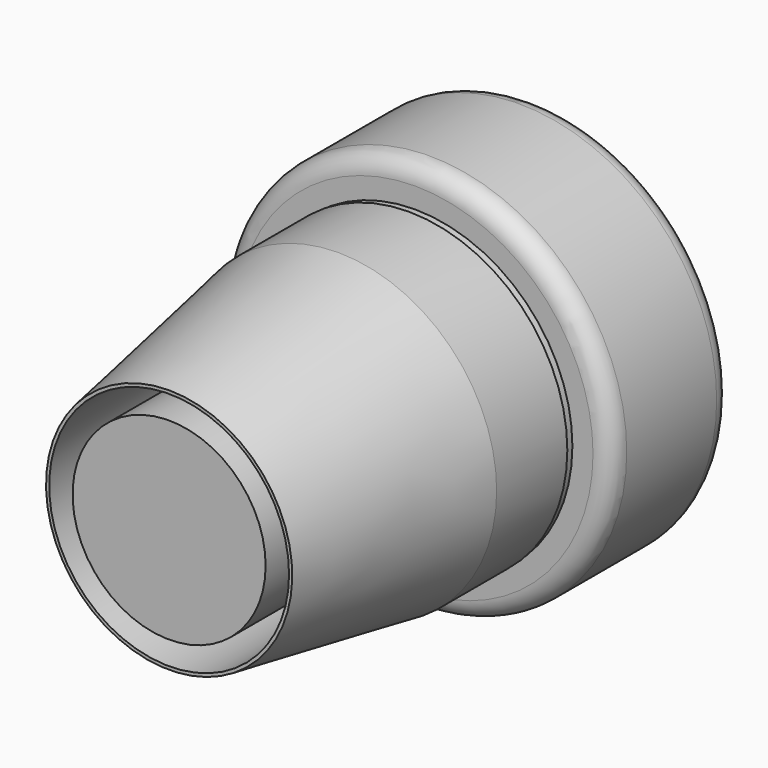
from build123d import *

# Parameters (mm, degrees)
F0_R     = 10.5
F1_DEPTH = 8
F2_R     = 8.4
F3_DEPTH = 0.4
F4_R     = 8.45
F4_R_2   = 8.4
F5_DEPTH = 16
F6_R     = 6.4
F6_R_2   = 5.15
F7_DEPTH = 10
F10_R    = 1


with BuildPart() as f1:
    # F0 (on Front) → F1 (new body)
    with BuildSketch(Plane.XZ):
        Circle(F0_R)
    extrude(amount=F1_DEPTH)

    # F2 (on face) → F3 (join)
    with BuildSketch(Plane.XZ.offset(8)):
        Circle(F2_R)
    extrude(amount=F3_DEPTH)

    # F4 (on face) → F5 (join)
    with BuildSketch(Plane.XZ.offset(8.4)):
        Circle(F4_R)
        Circle(F4_R_2, mode=Mode.SUBTRACT)
        Circle(F4_R_2)
    extrude(amount=F5_DEPTH)

    # F6 (on face) → F7 (cut)
    with BuildSketch(Plane.XZ.offset(24.4)):
        Circle(F6_R)
        Circle(F6_R_2, mode=Mode.SUBTRACT)
    extrude(amount=-F7_DEPTH, mode=Mode.SUBTRACT)

    # F8 (on Right) → F9 (revolve, cut)
    with BuildSketch(Plane.YZ):
        Polygon((-12.4, 8.569138), (-24.4, 8.569138), (-24.4, 6.569138), align=None)
    revolve(axis=Axis((0, -18.4, 0), (0, -1, 0)), mode=Mode.SUBTRACT)

    # F10
    f10_edges = [f1.edges().sort_by_distance(p)[0] for p in [
        (-10.5, -8, 0),
        (-10.5, 0, 0),
    ]]
    fillet(f10_edges, radius=F10_R)


solid = f1.part
